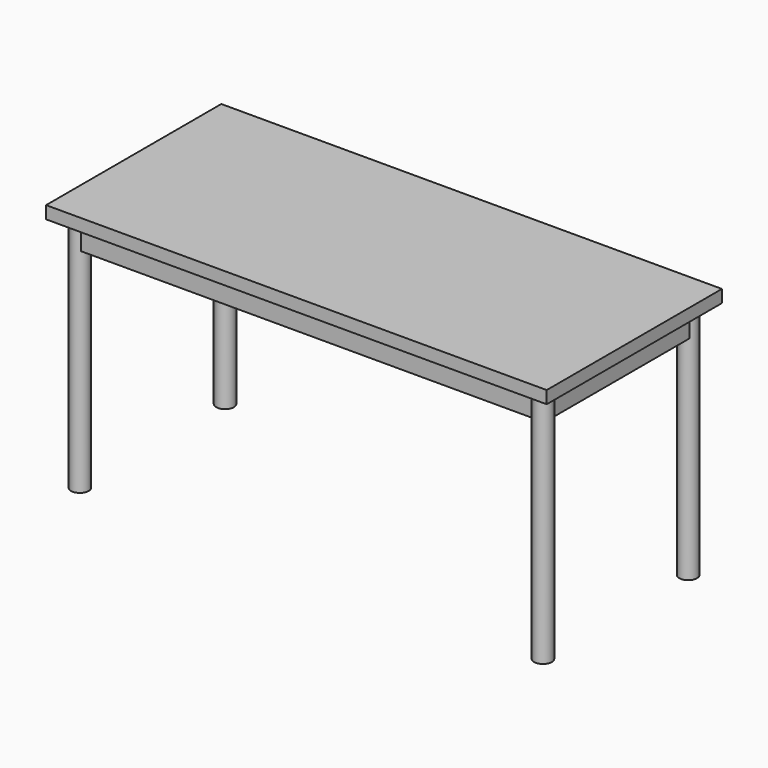
from build123d import *

# Parameters (mm, degrees)
F0_W     = 350
F0_H     = 20
F1_DEPTH = 800
F2_W     = 760
F2_H     = 310
F2_W_2   = 720
F2_H_2   = 270
F3_DEPTH = 40
F4_R     = 14.142136
F5_DEPTH = 380


with BuildPart() as f1:
    # F0 (on Right) → F1 (new body)
    with BuildSketch(Plane.YZ):
        with Locations((175, 10)):
            Rectangle(F0_W, F0_H)
    extrude(amount=F1_DEPTH)

    # F2 (on face) → F3 (join)
    with BuildSketch(Plane(origin=(0, 0, 0), x_dir=(1, 0, 0), z_dir=(0, 0, -1))):
        with Locations((400, -175)):
            Rectangle(F2_W, F2_H)
        with Locations((400, -175)):
            Rectangle(F2_W_2, F2_H_2, mode=Mode.SUBTRACT)
    extrude(amount=F3_DEPTH)

    # F4 (on face) → F5 (join)
    with BuildSketch(Plane(origin=(0, 0, 0), x_dir=(1, 0, 0), z_dir=(0, 0, -1))):
        with Locations((30, -30)):
            Circle(F4_R)
        with Locations((770, -30)):
            Circle(F4_R)
        with Locations((30, -320)):
            Circle(F4_R)
        with Locations((770, -320)):
            Circle(F4_R)
    extrude(amount=F5_DEPTH)


solid = f1.part
